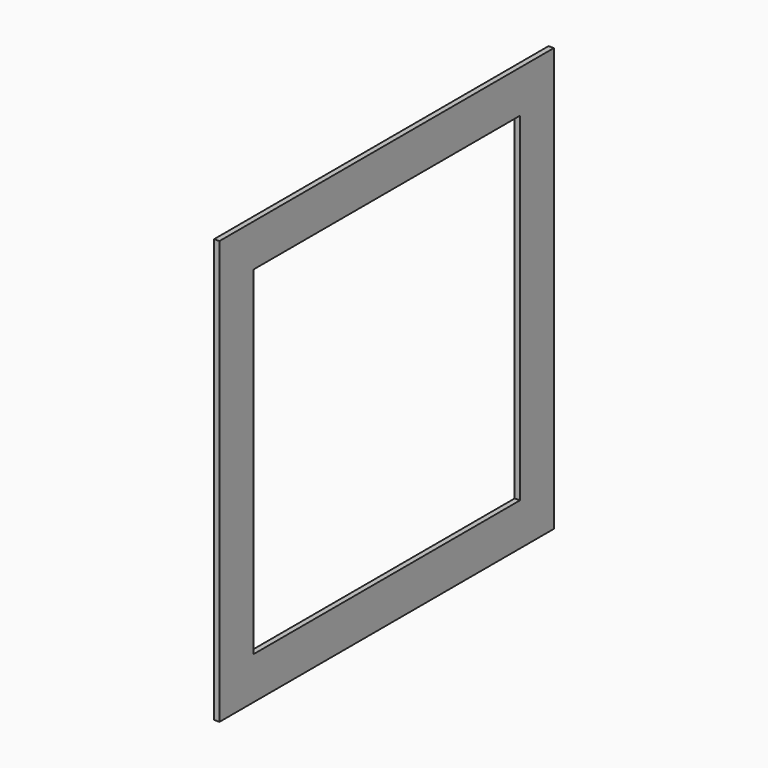
from build123d import *

# Parameters (mm, degrees)
BOX001_W     = 6.35
BOX001_H     = 400.05
BOX001_DEPTH = 406.4
BOX_W        = 6.35
BOX_H        = 501.65
BOX_DEPTH    = 508


with BuildPart() as inner_hole_small_pc:
    # Box001 → Box001 (new body)
    with BuildSketch(Plane(origin=(0, 50.8, 50.8), x_dir=(1, 0, 0), z_dir=(0, 0, 1))):
        with Locations((3.175, 200.025)):
            Rectangle(BOX001_W, BOX001_H)
    extrude(amount=BOX001_DEPTH)


with BuildPart() as small_secondary_cube_back_end:
    # Box → Box (new body)
    with BuildSketch(Plane.XY):
        with Locations((3.175, 250.825)):
            Rectangle(BOX_W, BOX_H)
    extrude(amount=BOX_DEPTH)

    # Cut: cut inner hole small PC
    add(inner_hole_small_pc.part, mode=Mode.SUBTRACT)


solid = small_secondary_cube_back_end.part
